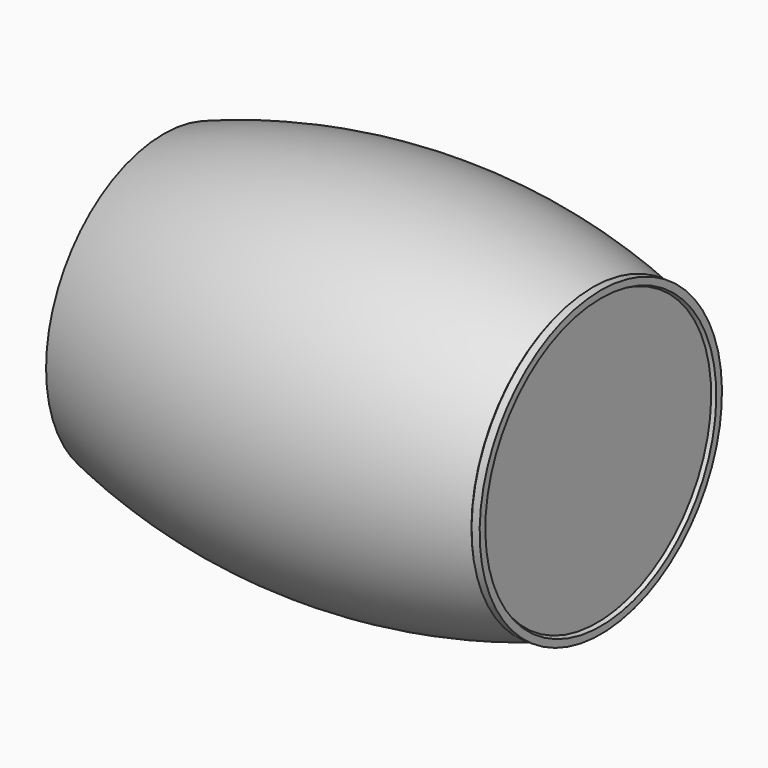
from build123d import *


with BuildPart() as f1:
    # F0 (on Front) → F1 (revolve)
    with BuildSketch(Plane.XZ):
        with BuildLine():
            Line((-403.005824, -91.940578), (-396.655833, -91.940578))
            Line((-396.655833, -91.940578), (-396.655833, 200.159422))
            ThreePointArc((-396.655833, 200.159422), (33.073456, 273.708927), (463.3075, 203.171998))
            Line((463.3075, 203.171998), (467.330694, 207.792342))
            Line((467.330694, 207.792342), (474.398226, 207.792342))
            Line((474.398226, 207.792342), (474.398226, 203.746349))
            Line((474.398226, 203.746349), (466.944167, 200.159422))
            Line((466.944167, 200.159422), (466.944167, -91.940578))
            Line((466.944167, -91.940578), (473.294159, -91.940578))
            Line((473.294159, -91.940578), (473.294159, 196.168127))
            Line((473.294159, 196.168127), (480.748217, 199.755054))
            Line((480.748217, 199.755054), (480.748217, 214.142333))
            Line((480.748217, 214.142333), (464.440043, 214.142333))
            Line((464.440043, 214.142333), (461.31447, 210.552842))
            ThreePointArc((461.31447, 210.552842), (28.66068, 280.036227), (-403.005824, 204.662006))
            Line((-403.005824, 204.662006), (-403.005824, -91.940578))
        make_face()
    revolve(axis=Axis((35.144167, 0, -91.940578), (1, 0, 0)))


solid = f1.part
